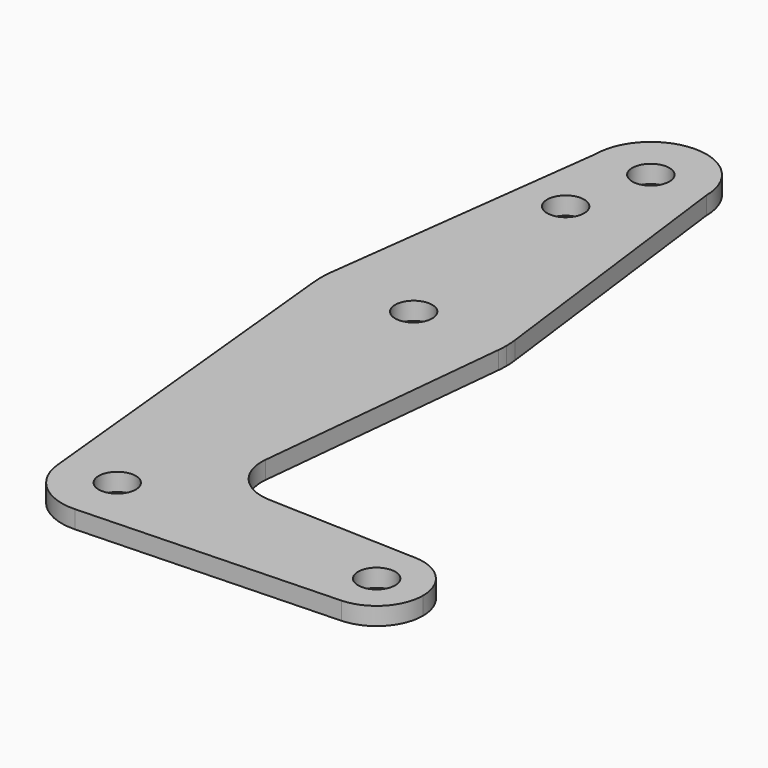
from build123d import *

# Parameters (mm, degrees)
F0_R     = 3.175
F1_DEPTH = 3.048


with BuildPart() as f1:
    # F0 (on Top) → F1 (new body)
    with BuildSketch(Plane.XY):
        with BuildLine():
            ThreePointArc((9.525, 114.3), (0, 123.825), (-9.525, 114.3))
            ThreePointArc((-9.525, 114.3), (0, 104.775), (9.525, 114.3))
        make_face()
        with Locations((0, 114.3)):
            Circle(F0_R, mode=Mode.SUBTRACT)
        with BuildLine():
            Line((-9.525, 114.3), (-15.747457, 65.508289))
            ThreePointArc((-15.747457, 65.508289), (0, 79.375), (15.747457, 65.508289))
            Line((15.747457, 65.508289), (9.525, 114.3))
            ThreePointArc((9.525, 114.3), (0, 104.775), (-9.525, 114.3))
        make_face()
        with Locations((-3.175, 100.0252)):
            Circle(F0_R, mode=Mode.SUBTRACT)
        with BuildLine():
            ThreePointArc((-15.747457, 65.508289), (-15.873588, 63.711757), (-15.795426, 61.9125))
            ThreePointArc((-15.795426, 61.9125), (0, 47.625), (15.795426, 61.9125))
            ThreePointArc((15.795426, 61.9125), (15.855094, 62.705253), (15.875, 63.5))
            ThreePointArc((15.875, 63.5), (15.843082, 64.506168), (15.747457, 65.508289))
            ThreePointArc((15.747457, 65.508289), (0, 79.375), (-15.747457, 65.508289))
        make_face()
        with Locations((0, 63.5)):
            Circle(F0_R, mode=Mode.SUBTRACT)
        with BuildLine():
            ThreePointArc((-9.477255, -0.9525), (-0.476848, 9.513056), (9.525, 0))
            ThreePointArc((9.525, 0), (6.854408, -6.613827), (0.340179, -9.518923))
            Line((0.340179, -9.518923), (44.733482, -7.932436))
            ThreePointArc((44.733482, -7.932436), (36.5125, 0), (44.733482, 7.932436))
            Line((44.733482, 7.932436), (18.9676, 8.853234))
            ThreePointArc((18.9676, 8.853234), (13.2612, 11.571359), (11.341187, 17.593382))
            Line((11.341187, 17.593382), (15.795426, 61.9125))
            ThreePointArc((15.795426, 61.9125), (0, 47.625), (-15.795426, 61.9125))
            Line((-15.795426, 61.9125), (-9.477255, -0.9525))
        make_face()
        with BuildLine():
            ThreePointArc((0.340179, -9.518923), (6.854408, -6.613827), (9.525, 0))
            ThreePointArc((9.525, 0), (-0.476848, 9.513056), (-9.477255, -0.9525))
            ThreePointArc((-9.477255, -0.9525), (-6.262383, -7.17692), (0.340179, -9.518923))
        make_face()
        Circle(F0_R, mode=Mode.SUBTRACT)
        with BuildLine():
            ThreePointArc((44.733482, 7.932436), (36.5125, 0), (44.733482, -7.932436))
            ThreePointArc((44.733482, -7.932436), (50.162007, -5.511523), (52.3875, 0))
            ThreePointArc((52.3875, 0), (50.162007, 5.511523), (44.733482, 7.932436))
        make_face()
        with Locations((44.45, 0)):
            Circle(F0_R, mode=Mode.SUBTRACT)
    extrude(amount=F1_DEPTH)


solid = f1.part
